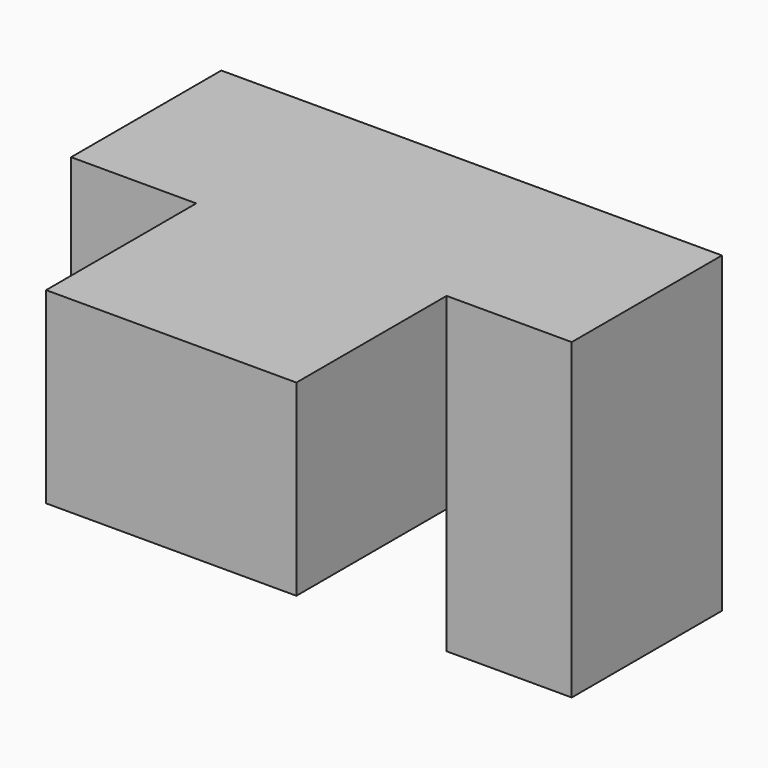
from build123d import *

# Parameters (mm, degrees)
F0_W     = 101.6
F0_H     = 76.2
F1_DEPTH = 76.2
F2_W     = 101.6
F2_H     = 76.2
F3_DEPTH = 76.2


with BuildPart() as f1:
    # F0 (on Front) → F1 (new body)
    with BuildSketch(Plane.XZ):
        with Locations((-3.729625, 18.833704)):
            Rectangle(F0_W, F0_H)
        Polygon((-54.529625, -19.266296), (-54.529625, 56.933704), (-105.329625, 56.933704), (-105.329625, -70.066296), (-54.529625, -70.066296), align=None)
        Polygon((97.870375, 56.933704), (47.070375, 56.933704), (47.070375, -19.266296), (47.070375, -70.066296), (97.870375, -70.066296), align=None)
    extrude(amount=F1_DEPTH)

    # F2 (on face) → F3 (join)
    with BuildSketch(Plane.XZ.offset(76.2)):
        with Locations((-3.729625, 18.833704)):
            Rectangle(F2_W, F2_H)
    extrude(amount=F3_DEPTH)


solid = f1.part
